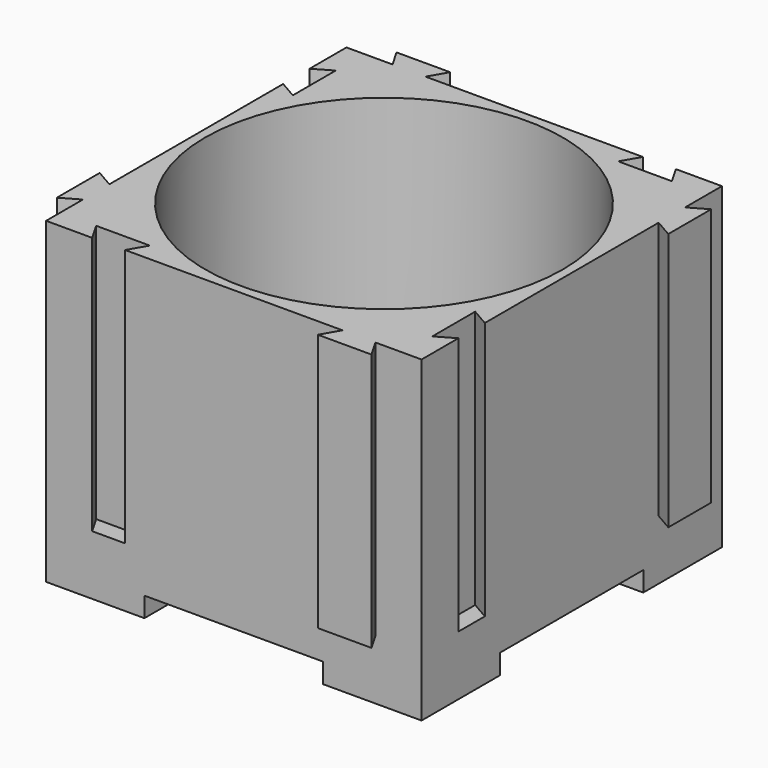
from build123d import *

# Parameters (mm, degrees)
F1_R              = 9
F2_DEPTH          = 13
F3_W              = 18.9
F3_H              = 18.9
F4_DEPTH          = 3
F5_R              = 4.5
F6_DEPTH          = 2
F8_DEPTH          = 1
F10_D             = 3.3
F10_CSINK_D       = 6.72
F10_CSINK_ANGLE   = 90
F10_2_D           = 3.3
F10_2_CSINK_D     = 6.72
F10_2_CSINK_ANGLE = 90


with BuildPart() as f2:
    # F1 (on Top) → F2 (new body)
    with BuildSketch(Plane.XY):
        Polygon((7.1303847577, -9.45), (9.45, -9.45), (9.45, -7.1303847577), (8.55, -7.65), (8.55, -4.95), (9.45, -5.4696152423), (9.45, 5.4696152423), (10.35, 4.95), (10.35, 7.65), (9.45, 7.1303847577), (9.45, 9.45), (7.1303847577, 9.45), (7.65, 8.55), (4.95, 8.55), (5.4696152423, 9.45), (-5.4696152423, 9.45), (-4.95, 10.35), (-7.65, 10.35), (-7.1303847577, 9.45), (-9.45, 9.45), (-9.45, 7.1303847577), (-8.55, 7.65), (-8.55, 4.95), (-9.45, 5.4696152423), (-9.45, -5.4696152423), (-10.35, -4.95), (-10.35, -7.65), (-9.45, -7.1303847577), (-9.45, -9.45), (-7.1303847577, -9.45), (-7.65, -8.55), (-4.95, -8.55), (-5.4696152423, -9.45), (5.4696152423, -9.45), (4.95, -10.35), (7.65, -10.35), align=None)
        Circle(F1_R, mode=Mode.SUBTRACT)
    extrude(amount=F2_DEPTH)

    # F3 (on face) → F4 (join)
    with BuildSketch(Plane(origin=(0, 0, 0), x_dir=(1, 0, 0), z_dir=(0, 0, -1))):
        Rectangle(F3_W, F3_H)
    extrude(amount=F4_DEPTH)

    # F7 (on face) → F8 (cut)
    with BuildSketch(Plane(origin=(0, 0, -3), x_dir=(1, 0, 0), z_dir=(0, 0, -1))):
        Polygon((-4.5, -9.45), (4.5, -9.45), (4.5, -4.5), (9.45, -4.5), (9.45, 4.5), (4.5, 4.5), (4.5, 9.45), (-4.5, 9.45), (-4.5, 4.5), (-9.45, 4.5), (-9.45, -4.5), (-4.5, -4.5), align=None)
    extrude(amount=-F8_DEPTH, mode=Mode.SUBTRACT)

    # F10 (through all)
    with Locations(Plane.XY.offset(2)):
        with Locations((0, 0)):
            CounterSinkHole(F10_D / 2, F10_CSINK_D / 2, counter_sink_angle=F10_CSINK_ANGLE)


with BuildPart() as f6:
    # F5 (on face) → F6 (new body)
    with BuildSketch(Plane.XY):
        Circle(F5_R)
    extrude(amount=F6_DEPTH)

    # F10#2 (through all)
    with Locations(Plane.XY.offset(2)):
        with Locations((0, 0)):
            CounterSinkHole(F10_2_D / 2, F10_2_CSINK_D / 2, counter_sink_angle=F10_2_CSINK_ANGLE)


solid = Compound([f2.part, f6.part])
